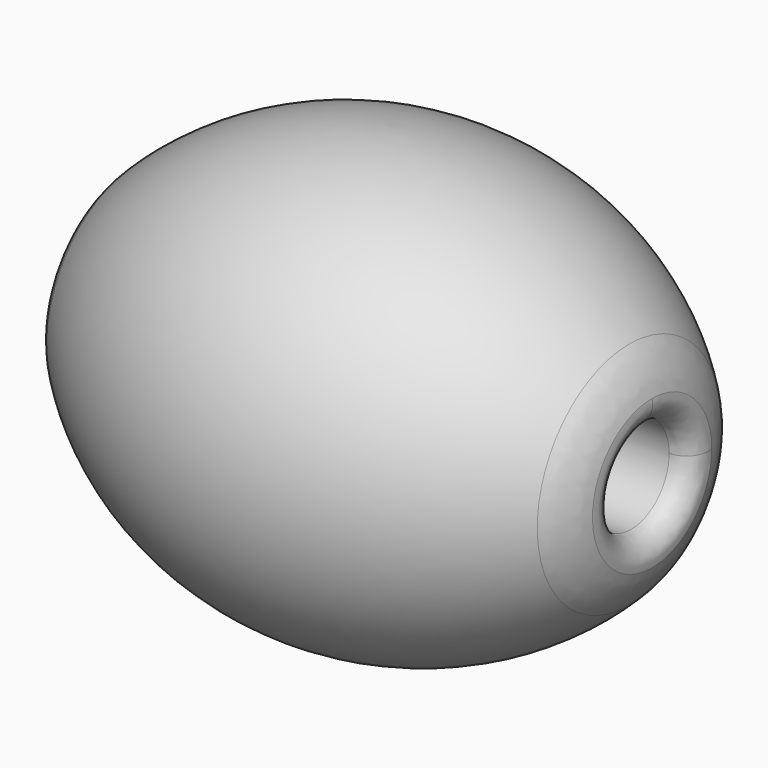
from build123d import *

# Parameters (mm, degrees)
F2_R     = 10
F3_R     = 5.5
F4_DEPTH = 100
F5_R     = 2.5


with BuildPart() as f1:
    # F0 (on Front) → F1 (revolve)
    with BuildSketch(Plane.XZ):
        with BuildLine():
            Line((31.22499, 0), (31.22499, 10))
            ThreePointArc((31.22499, 10), (0, 25), (-31.22499, 10))
            Line((-31.22499, 10), (-31.22499, 0))
            Line((-31.22499, 0), (0, 0))
            Line((0, 0), (31.22499, 0))
        make_face()
    revolve(axis=Axis((-15.612495, 0, 0), (1, 0, 0)))

    # F2
    f2_edges = [f1.edges().sort_by_distance(p)[0] for p in [
        (-31.22499, 0, -10),
        (31.22499, 0, -10),
    ]]
    fillet(f2_edges, radius=F2_R)

    # F3 (on Right) → F4 (cut, symmetric)
    with BuildSketch(Plane.YZ):
        Circle(F3_R)
    extrude(amount=F4_DEPTH, both=True, mode=Mode.SUBTRACT)

    # F5
    f5_edges = [f1.edges().sort_by_distance(p)[0] for p in [
        (-31.22499, -5.5, 0),
        (0, 5.5, 0),
        (31.22499, -5.5, 0),
    ]]
    fillet(f5_edges, radius=F5_R)


solid = f1.part
